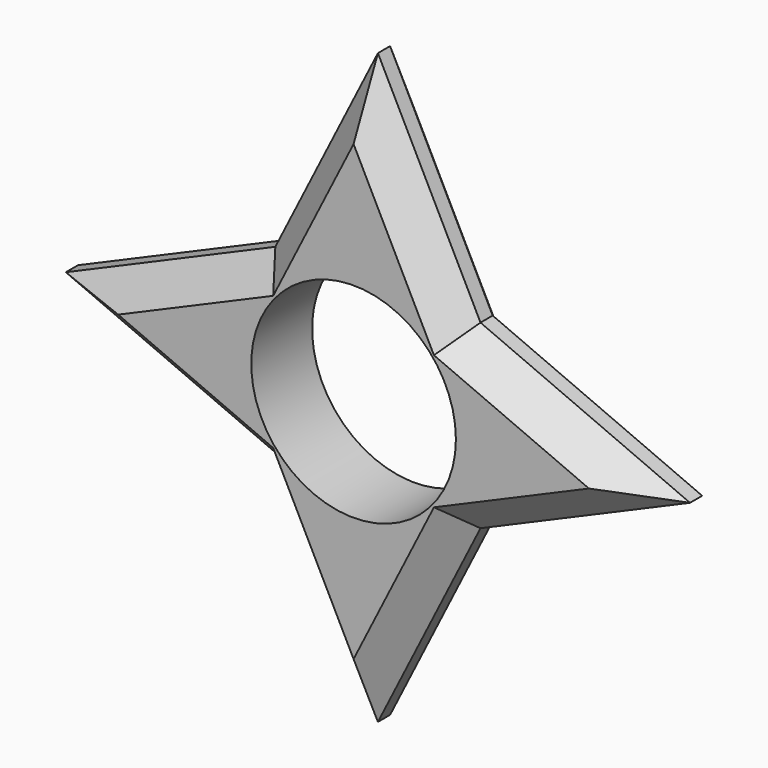
from build123d import *

# Parameters (mm, degrees)
F0_R     = 17.081459
F1_DEPTH = 12.7
F2_SIZE  = 5.08
F3_SIZE  = 5.08


with BuildPart() as f1:
    # F0 (on Front) → F1 (new body)
    with BuildSketch(Plane.XZ):
        Polygon((-17.124444, 15.109803), (-52.100205, 0), (-17.124444, -15.109803), (0, -49.144541), (17.124444, -15.109803), (52.100205, 0), (17.124444, 15.109803), (0, 49.144541), align=None)
        Circle(F0_R, mode=Mode.SUBTRACT)
    extrude(amount=F1_DEPTH)

    # F2
    f2_edges = [f1.edges().sort_by_distance(p)[0] for p in [
        (-34.612325, -12.7, -7.554901),
        (-34.612325, -12.7, 7.554901),
        (-8.562222, -12.7, 32.127172),
        (8.562222, -12.7, 32.127172),
        (34.612325, -12.7, 7.554901),
        (34.612325, -12.7, -7.554901),
        (8.562222, -12.7, -32.127172),
        (-8.562222, -12.7, -32.127172),
    ]]
    chamfer(f2_edges, length=F2_SIZE)

    # F3
    f3_edges = [f1.edges().sort_by_distance(p)[0] for p in [
        (8.562222, 0, 32.127172),
        (-8.562222, 0, 32.127172),
        (-34.612325, 0, 7.554901),
        (-34.612325, 0, -7.554901),
        (-8.562222, 0, -32.127172),
        (8.562222, 0, -32.127172),
        (34.612325, 0, -7.554901),
        (34.612325, 0, 7.554901),
    ]]
    chamfer(f3_edges, length=F3_SIZE)


solid = f1.part
